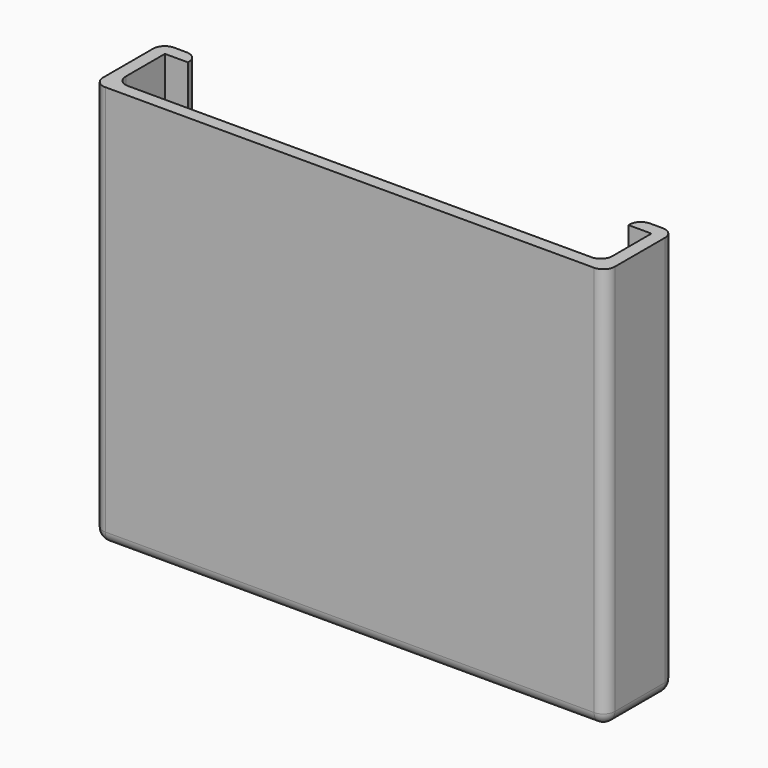
from build123d import *

# Parameters (mm, degrees)
F1_DEPTH = 70
F3_DEPTH = 3
F4_R     = 2


with BuildPart() as f1:
    # F0 (on Top) → F1 (new body)
    with BuildSketch(Plane.XY):
        Polygon((-44.45, 0), (0, 0), (0, 2.2), (-42.25, 2.2), (-42.25, 12.7), (-38.25, 12.7), (-38.25, 14.9), (-44.45, 14.9), align=None)
        Polygon((0, 2.2), (0, 0), (44.45, 0), (44.45, 14.6), (44.45, 14.9), (38.25, 14.9), (38.25, 12.7), (42.25, 12.7), (42.25, 2.2), align=None)
        Polygon((0, 2.2), (0, 0), (44.45, 0), (44.45, 14.6), (44.45, 14.9), (38.25, 14.9), (38.25, 12.7), (42.25, 12.7), (42.25, 2.2), align=None)
    extrude(amount=F1_DEPTH)

    # F2 (on face) → F3 (join)
    with BuildSketch(Plane.XY):
        Polygon((0, 0), (44.45, 0), (44.45, 14.9), (-38.25, 14.9), (-38.25, 12.7), (-42.25, 12.7), (-42.25, 2.2), (0, 2.2), align=None)
        Polygon((-44.45, 0), (0, 0), (0, 2.2), (-42.25, 2.2), (-42.25, 12.7), (-38.25, 12.7), (-38.25, 14.9), (-44.45, 14.9), align=None)
    extrude(amount=F3_DEPTH)

    # F4
    f4_edges = [f1.edges().sort_by_distance(p)[0] for p in [
        (44.45, 0, 35),
        (44.45, 14.9, 35),
        (38.25, 14.9, 36.5),
        (42.25, 2.2, 36.5),
        (-38.25, 14.9, 36.5),
        (-42.25, 2.2, 36.5),
        (-44.45, 14.9, 35),
        (-44.45, 0, 35),
        (0, 0, 0),
        (0, 14.9, 0),
        (-44.45, 7.45, 0),
        (44.45, 7.45, 0),
    ]]
    fillet(f4_edges, radius=F4_R)


solid = f1.part
